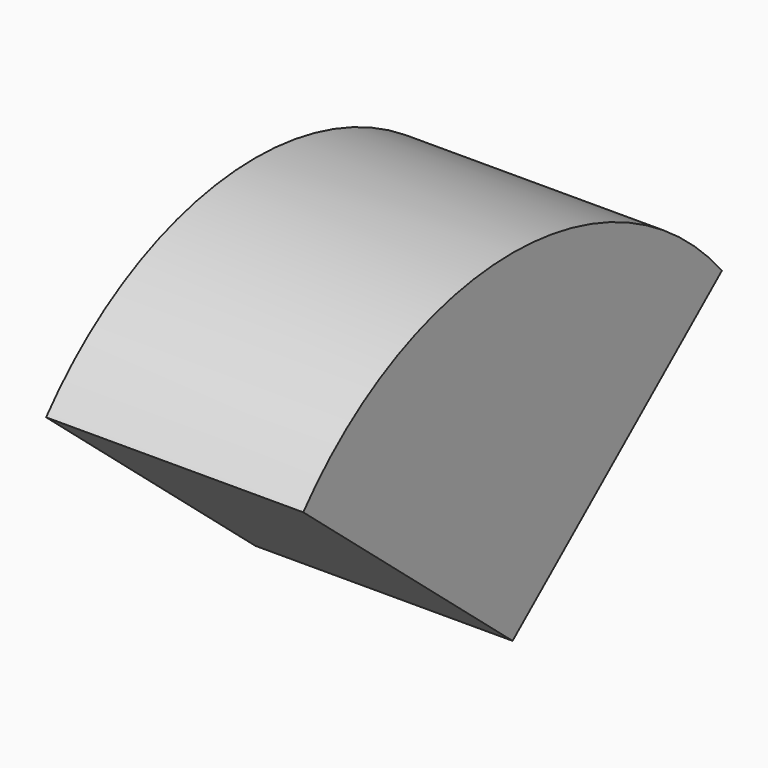
from build123d import *

# Parameters (mm, degrees)
F0_W          = 32.2565734386
F0_H          = 42.8464952856
F1_ANGLE_BACK = 50
F1_ANGLE      = 100


with BuildPart() as f1:
    # F0 (on Front) → F1 (revolve)
    with BuildSketch(Plane.XZ, mode=Mode.PRIVATE) as f1_sk:
        with Locations((-58.9272528887, 32.0639833808)):
            Rectangle(F0_W, F0_H)
    revolve(f1_sk.sketch.rotate(Axis((-58.9272528887, 0, 10.640735738), (1, 0, 0)), -F1_ANGLE_BACK), axis=Axis((-58.9272528887, 0, 10.640735738), (1, 0, 0)), revolution_arc=F1_ANGLE)


solid = f1.part
